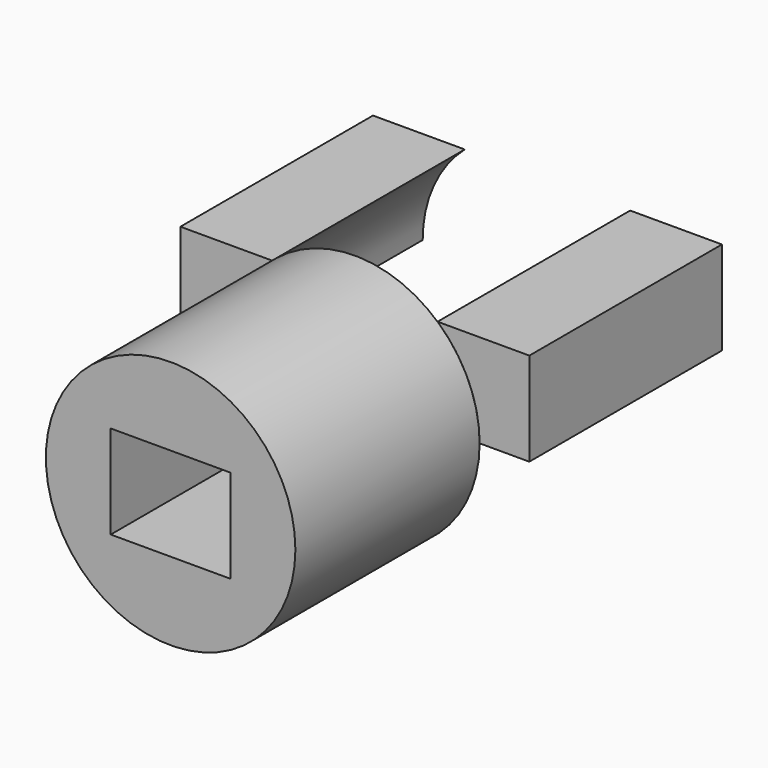
from build123d import *

# Parameters (mm, degrees)
F0_R     = 24.626174
F0_W     = 23.64625
F0_H     = 18.44053
F2_DEPTH = 45.45686
F4_DEPTH = 47.51623


with BuildPart() as f2:
    # F0 (on Front) → F2 (new body)
    with BuildSketch(Plane.XZ):
        Circle(F0_R)
        Rectangle(F0_W, F0_H, mode=Mode.SUBTRACT)
    extrude(amount=-F2_DEPTH)


with BuildPart() as f4:
    # F3 (on face) → F4 (new body)
    with BuildSketch(Plane(origin=(0, 45.45686, 0), x_dir=(-1, 0, 0), z_dir=(0, 1, 0))):
        with BuildLine():
            Line((24.626174, 0), (34.437932, 0))
            Line((34.437932, 0), (34.437932, 18.44053))
            Line((34.437932, 18.44053), (16.321621, 18.44053))
            ThreePointArc((16.321621, 18.44053), (22.45426, 10.112106), (24.626174, 0))
        make_face()
        with BuildLine():
            Line((-34.437932, 0), (-24.626174, 0))
            ThreePointArc((-24.626174, 0), (-22.45426, 10.112106), (-16.321621, 18.44053))
            Line((-16.321621, 18.44053), (-34.437932, 18.44053))
            Line((-34.437932, 18.44053), (-34.437932, 0))
        make_face()
    extrude(amount=F4_DEPTH)


solid = Compound([f2.part, f4.part])
